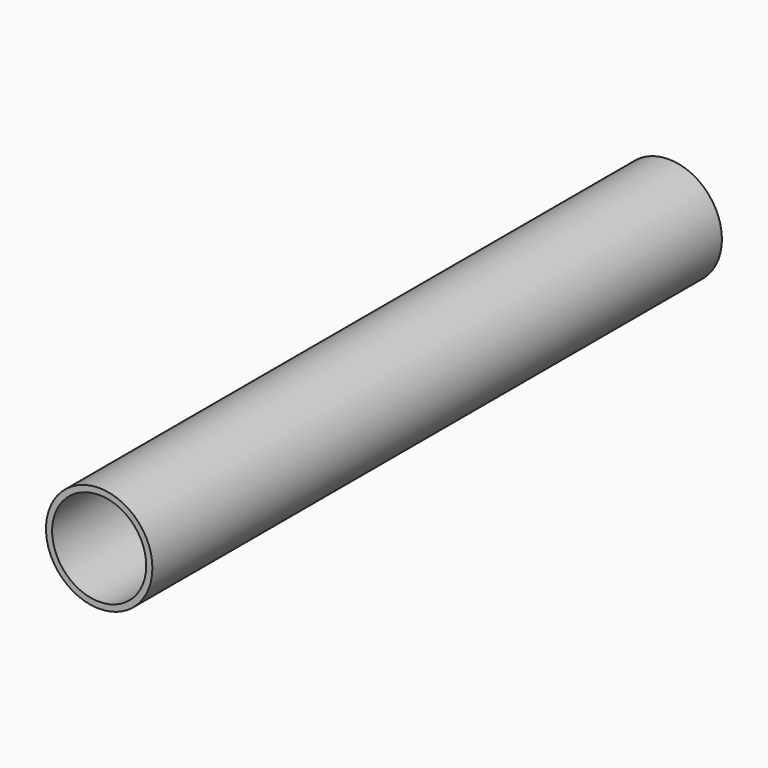
from build123d import *

# Parameters (mm, degrees)
F0_R     = 12.7
F0_R_2   = 11.2268
F1_DEPTH = 169.926
F2_R     = 5.1308
F3_DEPTH = 12.701


with BuildPart() as f1:
    # F0 (on Front) → F1 (new body)
    with BuildSketch(Plane.XZ):
        Circle(F0_R)
        Circle(F0_R_2, mode=Mode.SUBTRACT)
    extrude(amount=F1_DEPTH)

    # F2 (on Right) → F3 (cut, through all)
    with BuildSketch(Plane.YZ):
        with Locations((-6.35, 0)):
            Circle(F2_R)
    extrude(amount=-F3_DEPTH, mode=Mode.SUBTRACT)


solid = f1.part
